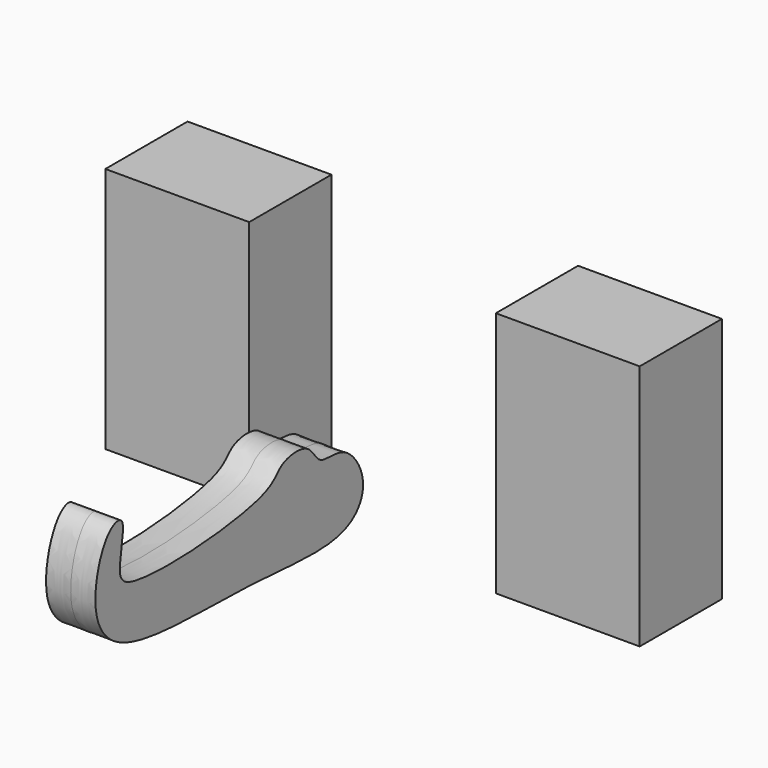
from build123d import *

# Parameters (mm, degrees)
F0_W     = 35
F0_H     = 60
F1_DEPTH = 12.5
F3_DEPTH = 6


with BuildPart() as f1:
    # F0 (on Front) → F1 (new body, symmetric)
    with BuildSketch(Plane.XZ):
        with Locations((-47.5, 30)):
            Rectangle(F0_W, F0_H)
    extrude(amount=F1_DEPTH, both=True)


with BuildPart() as f1b:
    # F0 (on Front) → F1, piece 2 (new body, symmetric)
    with BuildSketch(Plane.XZ):
        with Locations((47.5, 30)):
            Rectangle(F0_W, F0_H)
    extrude(amount=F1_DEPTH, both=True)


with BuildPart() as f3:
    # F2 (on Right) → F3 (new body, symmetric)
    with BuildSketch(Plane.YZ):
        with BuildLine():
            add(Edge.make_bspline(
                [(-28.8816653192, 29.0815364569), (-31.391591583, 30.1441198621), (-36.6375711742, 28.6717307181), (-38.8779677638, 35.7378293481), (-48.6233527516, 34.7851776173), (-50.3554397177, 27.6787749361), (-94.2449869028, 24.7727056739), (-97.8867966626, 31.3297053136), (-94.2962957604, 43.1328134293), (-101.6512819779, 41.7178074499), (-106.498697411, 25.9188972064), (-97.1228357177, 11.3790225069), (-57.739954324, 13.4703511425), (-28.1121419122, 8.9153546717), (-20.5961136334, 19.8590793719), (-25.7841486626, 27.7701952259), (-28.8816653192, 29.0815364569)],
                knots=[0, 0, 0, 0, 0.0536324703, 0.1014978451, 0.1562535378, 0.2073268053, 0.3357111928, 0.384869459, 0.4472850237, 0.4857318039, 0.5633265098, 0.6379888999, 0.7636152071, 0.872741102, 0.9338118125, 1, 1, 1, 1], degree=3))
        make_face()
    extrude(amount=F3_DEPTH, both=True)


solid = Compound([f1.part, f1b.part, f3.part])
